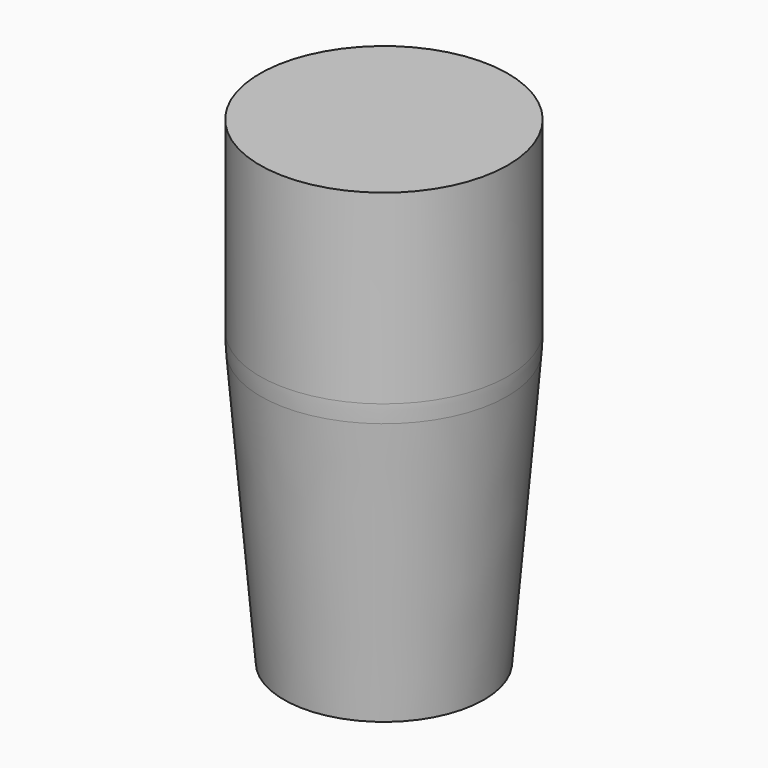
from build123d import *


with BuildPart() as f1:
    # F0 (on Front) → F1 (revolve)
    with BuildSketch(Plane.XZ):
        with BuildLine():
            Line((0, 171.45), (0, 0))
            Line((0, 0), (35.8775, 0))
            Line((35.8775, 0), (44.1802, 98.402376))
            ThreePointArc((44.1802, 98.402376), (44.38252, 101.602842), (44.45, 104.808986))
            Line((44.45, 104.808986), (44.45, 171.45))
            Line((44.45, 171.45), (0, 171.45))
        make_face()
    revolve(axis=Axis((0, 0, 85.725), (0, 0, -1)))


solid = f1.part
